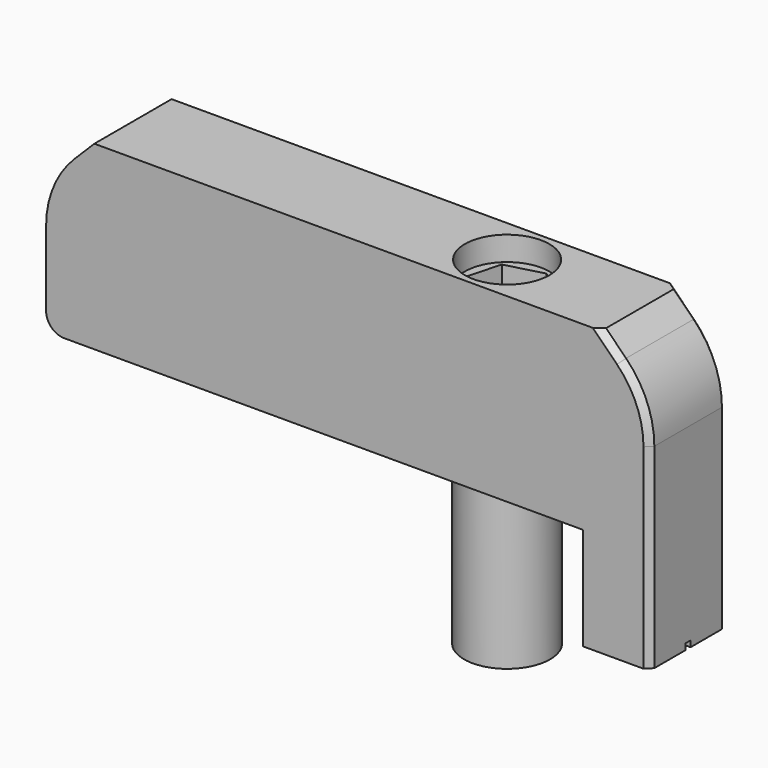
from build123d import *

# Parameters (mm, degrees)
SKETCH_W        = 100
SKETCH_H        = 16
PAD_DEPTH       = 30
SKETCH001_R     = 7.125
PAD001_DEPTH    = 26
SKETCH002_W     = 11
SKETCH002_H     = 16
PAD002_DEPTH    = 17
SKETCH004_R     = 3.5
POCKET_DEPTH    = 56.001
SKETCH005_R     = 7
POCKET001_DEPTH = 4
POCKET002_DEPTH = 7
SKETCH007_W     = 27.137496
SKETCH007_H     = 1
POCKET003_DEPTH = 1
CHAMFER_SIZE    = 8
FILLET_R        = 16
FILLET001_R     = 3
CHAMFER001_SIZE = 1
CHAMFER002_SIZE = 1


with BuildPart() as part:
    # Sketch → Pad (new body)
    with BuildSketch(Plane.XY):
        Rectangle(SKETCH_W, SKETCH_H)
    extrude(amount=PAD_DEPTH)

    # Sketch001 (on Face5 of Pad) → Pad001 (join)
    with BuildSketch(Plane(origin=(0, 0, 0), x_dir=(1, 0, 0), z_dir=(0, 0, -1))):
        with Locations((20, 0)):
            Circle(SKETCH001_R)
    extrude(amount=PAD001_DEPTH)

    # Sketch002 (on Face4 of Pad001) → Pad002 (join)
    with BuildSketch(Plane(origin=(0, 0, 0), x_dir=(1, 0, 0), z_dir=(0, 0, -1))):
        with Locations((44.5, 0)):
            Rectangle(SKETCH002_W, SKETCH002_H)
    extrude(amount=PAD002_DEPTH)

    # Sketch004 (on Face13 of Pad002) → Pocket (cut, through all)
    with BuildSketch(Plane(origin=(0, 0, -26), x_dir=(1, 0, 0), z_dir=(0, 0, -1))):
        with Locations((20, 0)):
            Circle(SKETCH004_R)
    extrude(amount=-POCKET_DEPTH, mode=Mode.SUBTRACT)

    # Sketch005 (on Face6 of Pocket) → Pocket001 (cut)
    with BuildSketch(Plane.XY.offset(30)):
        with Locations((20, 0)):
            Circle(SKETCH005_R)
    extrude(amount=-POCKET001_DEPTH, mode=Mode.SUBTRACT)

    # Sketch006 (on Face6 of Pocket001) → Pocket002 (cut)
    with BuildSketch(Plane.XY.offset(30)):
        Polygon((24.48251, -4.498938), (26.137449, 1.632498), (21.65494, 6.131436), (15.51749, 4.498938), (13.862551, -1.632498), (18.34506, -6.131436), align=None)
    extrude(amount=-POCKET002_DEPTH, mode=Mode.SUBTRACT)

    # Sketch007 (on Face11 of Pocket002) → Pocket003 (cut)
    with BuildSketch(Plane(origin=(0, 0, -17), x_dir=(1, 0, 0), z_dir=(0, 0, -1))):
        with Locations((48.876606, 0)):
            Rectangle(SKETCH007_W, SKETCH007_H)
    extrude(amount=-POCKET003_DEPTH, mode=Mode.SUBTRACT)

    # Chamfer
    chamfer_edges = [part.edges().sort_by_distance(p)[0] for p in [
        (50, 0, 30),
        (-50, 0, 30),
    ]]
    chamfer(chamfer_edges, length=CHAMFER_SIZE)

    # Fillet
    fillet_edges = [part.edges().sort_by_distance(p)[0] for p in [
        (50, 0, 22),
        (-50, 0, 22),
    ]]
    fillet(fillet_edges, radius=FILLET_R)

    # Fillet001
    fillet001_edges = [part.edges().sort_by_distance(p)[0] for p in [
        (-50, 0, 0),
    ]]
    fillet(fillet001_edges, radius=FILLET001_R)

    # Chamfer001
    chamfer001_edges = [part.edges().sort_by_distance(p)[0] for p in [
        (50, 8, -8.5),
    ]]
    chamfer(chamfer001_edges, length=CHAMFER001_SIZE)

    # Chamfer002
    chamfer002_edges = [part.edges().sort_by_distance(p)[0] for p in [
        (50, -8, -8.5),
    ]]
    chamfer(chamfer002_edges, length=CHAMFER002_SIZE)


solid = part.part
